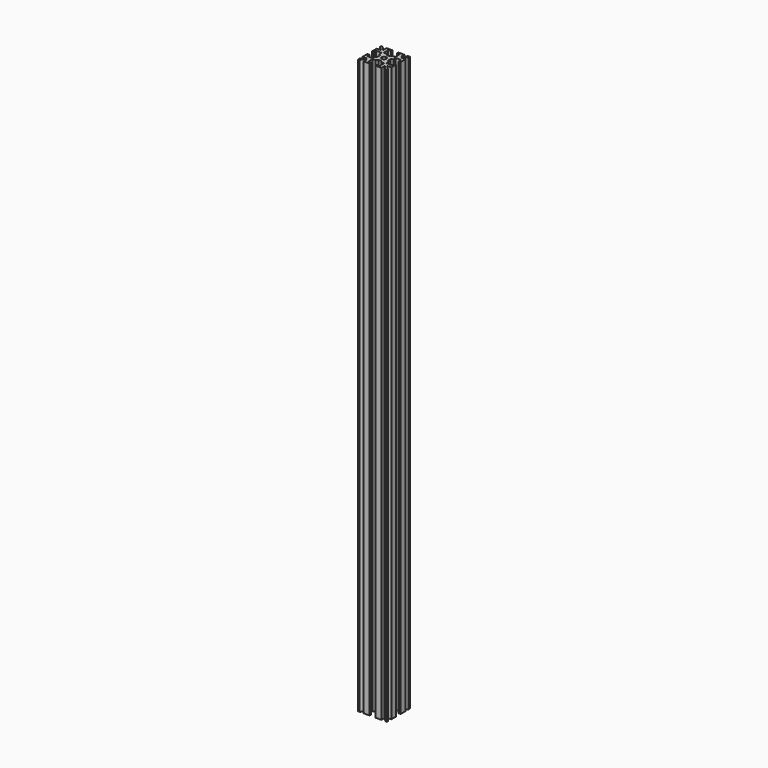
from build123d import *

# Parameters (mm, degrees)
F1_DEPTH = 300


with BuildPart() as f1:
    # F0 (on Top) → F1 (new body)
    with BuildSketch(Plane.XY):
        Polygon((-7.5, 4.630586), (-7.5, 1.5), (-6.5, 1.5), (-6.5, 3), (-3.65, 3), (-3.65, 1.5), (-2.714823, 0.814886), (-2.714823, 0), (-2.714823, -0.814886), (-3.65, -1.5), (-3.65, -3), (-6.5, -3), (-6.5, -1.5), (-7.5, -1.5), (-7.5, -4.630586), (-5.337693, -4.630586), (-7.5, -6.792893), (-7.5, -7.5), (-6.792893, -7.5), (-4.630586, -5.337693), (-4.630586, -7.5), (-1.5, -7.5), (-1.5, -6.5), (-3, -6.5), (-3, -3.65), (-1.5, -3.65), (-0.814886, -2.714823), (0, -2.714823), (0.814886, -2.714823), (1.5, -3.65), (3, -3.65), (3, -6.5), (1.5, -6.5), (1.5, -7.5), (4.630586, -7.5), (4.630586, -5.337693), (6.792893, -7.5), (7.5, -7.5), (7.5, -6.792893), (5.337693, -4.630586), (7.5, -4.630586), (7.5, -1.5), (6.5, -1.5), (6.5, -3), (3.65, -3), (3.65, -1.5), (2.714823, -0.814886), (2.714823, 0), (2.714823, 0.814886), (3.65, 1.5), (3.65, 3), (6.5, 3), (6.5, 1.5), (7.5, 1.5), (7.5, 4.630586), (5.337693, 4.630586), (7.5, 6.792893), (7.5, 7.5), (6.792893, 7.5), (4.630586, 5.337693), (4.630586, 7.5), (1.5, 7.5), (1.5, 6.5), (3, 6.5), (3, 3.65), (1.5, 3.65), (0.814886, 2.714823), (0, 2.714823), (-0.814886, 2.714823), (-1.5, 3.65), (-3, 3.65), (-3, 6.5), (-1.5, 6.5), (-1.5, 7.5), (-4.630586, 7.5), (-4.630586, 5.337693), (-6.792893, 7.5), (-7.5, 7.5), (-7.5, 6.792893), (-5.337693, 4.630586), align=None)
        with BuildLine():
            ThreePointArc((-1.15, 0), (-0.813173, 0.813173), (0, 1.15))
            ThreePointArc((0, 1.15), (0.813173, 0.813173), (1.15, 0))
            ThreePointArc((1.15, 0), (0.813173, -0.813173), (0, -1.15))
            ThreePointArc((0, -1.15), (-0.813173, -0.813173), (-1.15, 0))
        make_face(mode=Mode.SUBTRACT)
    extrude(amount=F1_DEPTH)


solid = f1.part
